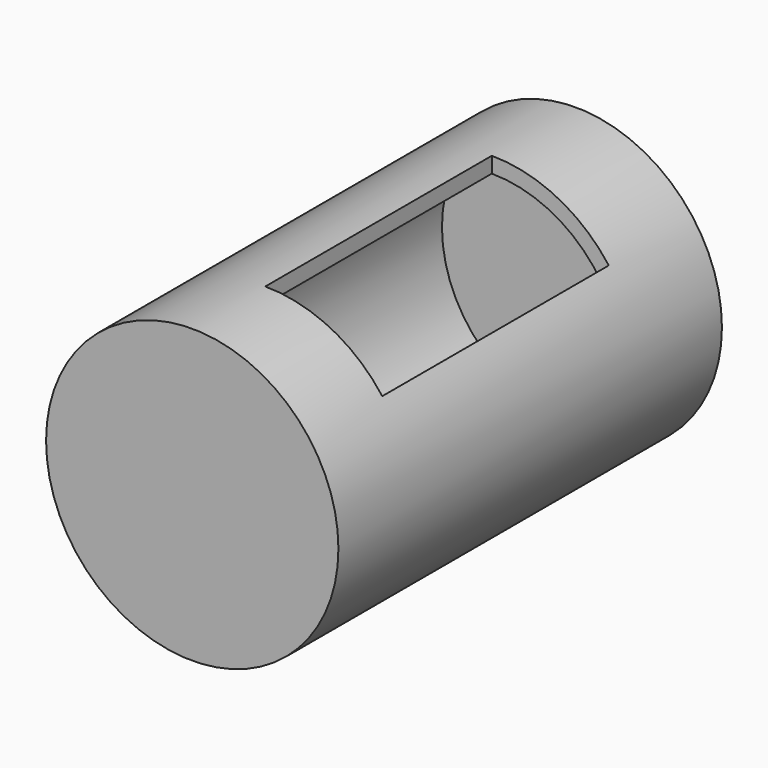
from build123d import *

# Parameters (mm, degrees)
F0_R     = 35.394351
F1_DEPTH = 116.078
F2_R     = 31.583321
F3_DEPTH = 108.204
F4_DEPTH = 1.016
F5_W     = 28.326623
F5_H     = 68.561267
F6_DEPTH = 66.7


with BuildPart() as f1:
    # F0 (on Front) → F1 (new body)
    with BuildSketch(Plane.XZ):
        Circle(F0_R)
    extrude(amount=F1_DEPTH)

    # F2 (on Front) → F3 (cut)
    with BuildSketch(Plane.XZ):
        Circle(F2_R)
    extrude(amount=F3_DEPTH, mode=Mode.SUBTRACT)

    # F2 (on Front) → F4 (join)
    with BuildSketch(Plane.XZ):
        Circle(F2_R)
    extrude(amount=F4_DEPTH)

    # F5 (on Top) → F6 (cut)
    with BuildSketch(Plane.XY):
        with Locations((14.163311, -59.691088)):
            Rectangle(F5_W, F5_H)
    extrude(amount=F6_DEPTH, mode=Mode.SUBTRACT)


solid = f1.part
